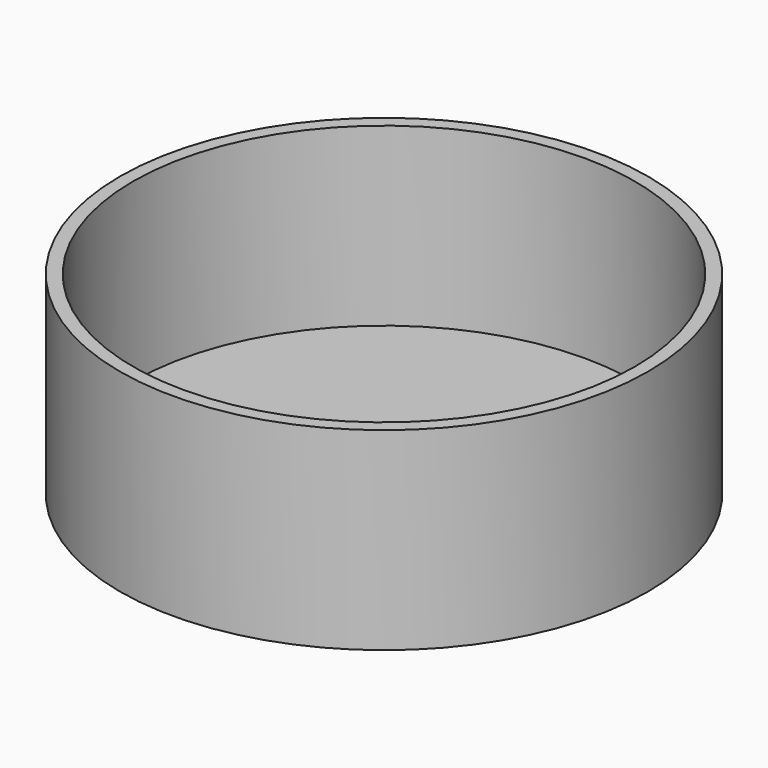
from build123d import *

# Parameters (mm, degrees)
SKETCH085_R     = 38.1
PAD038_DEPTH    = 27.94
SKETCH006_R     = 36.195
POCKET003_DEPTH = 25.4
SKETCH086_R     = 9.6139
POCKET037_DEPTH = 27.941


with BuildPart() as part:
    # Sketch085 → Pad038 (new body)
    with BuildSketch(Plane.XY):
        Circle(SKETCH085_R)
    extrude(amount=PAD038_DEPTH)

    # Sketch006 (on Face3 of Pad038) → Pocket003 (cut)
    with BuildSketch(Plane.XY.offset(27.94)):
        Circle(SKETCH006_R)
    extrude(amount=-POCKET003_DEPTH, mode=Mode.SUBTRACT)

    # Sketch086 (on Face2 of Pocket003) → Pocket037 (cut, through all)
    with BuildSketch(Plane(origin=(0, 0, 0), x_dir=(1, 0, 0), z_dir=(0, 0, -1))):
        Circle(SKETCH086_R)
    extrude(amount=-POCKET037_DEPTH, mode=Mode.SUBTRACT)


solid = part.part
